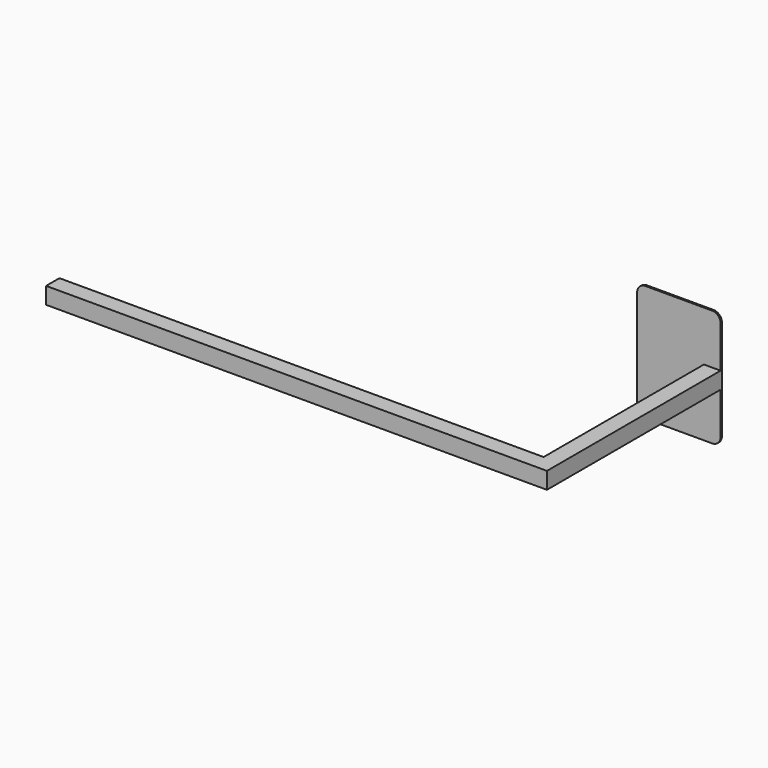
from build123d import *

# Parameters (mm, degrees)
F0_W     = 1500
F0_H     = 50
F1_DEPTH = 50
F2_W     = 50
F2_H     = 50
F3_DEPTH = 600
F4_W     = 50
F4_H     = 50
F5_DEPTH = 5


with BuildPart() as f1:
    # F0 (on Front) → F1 (new body)
    with BuildSketch(Plane.XZ):
        with Locations((750, -25)):
            Rectangle(F0_W, F0_H)
    extrude(amount=F1_DEPTH)

    # F2 (on face) → F3 (join)
    with BuildSketch(Plane(origin=(0, 0, 0), x_dir=(-1, 0, 0), z_dir=(0, 1, 0))):
        with Locations((-1475, -25)):
            Rectangle(F2_W, F2_H)
    extrude(amount=F3_DEPTH)

    # F4 (on face) → F5 (join)
    with BuildSketch(Plane(origin=(0, 600, 0), x_dir=(-1, 0, 0), z_dir=(0, 1, 0))):
        with BuildLine():
            Line((-1275, 150), (-1475, 150))
            ThreePointArc((-1475, 150), (-1492.67767, 142.67767), (-1500, 125))
            Line((-1500, 125), (-1500, 0))
            Line((-1500, 0), (-1450, 0))
            Line((-1450, 0), (-1450, -50))
            Line((-1450, -50), (-1500, -50))
            Line((-1500, -50), (-1500, -175))
            ThreePointArc((-1500, -175), (-1492.67767, -192.67767), (-1475, -200))
            Line((-1475, -200), (-1275, -200))
            ThreePointArc((-1275, -200), (-1257.32233, -192.67767), (-1250, -175))
            Line((-1250, -175), (-1250, 125))
            ThreePointArc((-1250, 125), (-1257.32233, 142.67767), (-1275, 150))
        make_face()
        with Locations((-1475, -25)):
            Rectangle(F4_W, F4_H)
    extrude(amount=F5_DEPTH)


solid = f1.part
